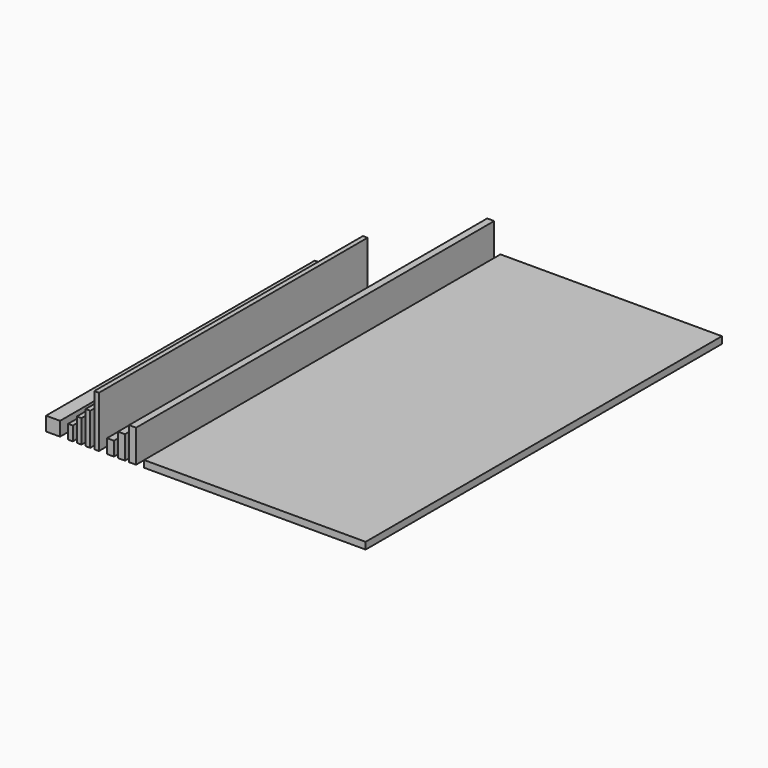
from build123d import *

# Parameters (mm, degrees)
F0_W     = 603.25
F0_H     = 1212.85
F2_DEPTH = 18.6436
F1_W     = 38.1
F1_H     = 38.1
F1_W_2   = 12.7
F1_H_2   = 63.5
F1_H_3   = 88.9
F1_H_4   = 139.7
F3_DEPTH = 914.4
F1_W_3   = 19.05
F4_DEPTH = 1219.2


with BuildPart() as f2:
    # F0 (on Top) → F2 (new body)
    with BuildSketch(Plane.XY):
        with Locations((301.625, 606.425)):
            Rectangle(F0_W, F0_H)
    extrude(amount=F2_DEPTH)


with BuildPart() as f3:
    # F1 (on Front) → F3 (new body)
    with BuildSketch(Plane.XZ):
        with Locations((-248, 19.05)):
            Rectangle(F1_W, F1_H)
        with Locations((-200.6, 19.05)):
            Rectangle(F1_W_2, F1_H)
        with Locations((-176.9, 31.75)):
            Rectangle(F1_W_2, F1_H_2)
        with Locations((-153.2, 44.45)):
            Rectangle(F1_W_2, F1_H_3)
        with Locations((-129.5, 69.85)):
            Rectangle(F1_W_2, F1_H_4)
    extrude(amount=-F3_DEPTH)


with BuildPart() as f4:
    # F1 (on Front) → F4 (new body)
    with BuildSketch(Plane.XZ):
        with Locations((-91.625, 19.05)):
            Rectangle(F1_W_3, F1_H)
        with Locations((-61.575, 31.75)):
            Rectangle(F1_W_3, F1_H_2)
        with Locations((-31.525, 44.45)):
            Rectangle(F1_W_3, F1_H_3)
    extrude(amount=-F4_DEPTH)


solid = Compound([f2.part, f3.part, f4.part])
